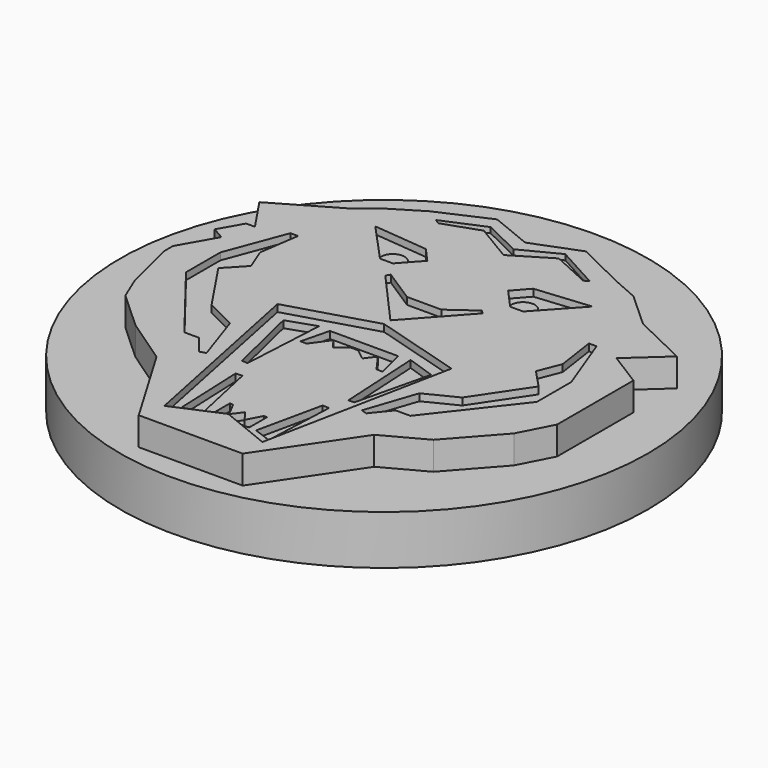
from build123d import *

# Parameters (mm, degrees)
F2_DEPTH  = 1.016
F0_R      = 9.525
F3_DEPTH  = 1.778
F5_DEPTH  = 0.73658
F8_DEPTH  = 0.19799
F10_DEPTH = 0.254
F12_DEPTH = 0.254
F14_DEPTH = 0.254
F16_DEPTH = 0.13808
F18_DEPTH = 0.254


with BuildPart() as f2:
    # F1 (on Top) → F2 (new body)
    with BuildSketch(Plane.XY):
        Polygon((-5.2096517757, 4.8718452454), (-7.3895002715, 3.6098279525), (-6.5481550992, 2.3594415264), (-6.86526423, 2.3594415264), (-7.3371550568, 1.5301066978), (-6.8923411891, 1.2770079775), (-7.6189576648, 0), (-7.6189576648, -0.3674388281), (-7.1600424126, -2.2795863915), (-6.7776124924, -3.1974171288), (-5.4391096346, -4.4211917557), (-3.7564195227, -5.5684801191), (-1.9207580481, -8.6661595851), (1.8270511646, -8.6661595851), (4.0068994276, -5.4537514225), (5.4983743466, -4.6506496146), (7.0280926302, -2.9297166038), (7.639979478, -1.7441851087), (7.639979478, -0.7116254419), (7.639979478, 0.3974201391), (7.639979478, 1.0475503514), (7.639979478, 1.6976804473), (6.4162053168, 2.4625393562), (7.6782228425, 3.6098279525), (5.6895888411, 4.5659020543), (4.427571781, 5.7131904177), (3.471497912, 6.1338627711), (1.6740793362, 7.0134503767), (0, 6.36332063), (-1.5000854619, 6.9752074778), (-3.2975040376, 6.17210567), (-4.3683070689, 5.5219754577), align=None)
    extrude(amount=F2_DEPTH)

    # F0 (on Top) → F3 (join)
    with BuildSketch(Plane.XY):
        Circle(F0_R)
    extrude(amount=-F3_DEPTH)

    # F7 (on face) → F8 (cut)
    with BuildSketch(Plane.XY.offset(1.016)):
        Polygon((-1.3463342329, 6.4942925237), (-2.822693903, 5.8646216057), (-2.6447118726, 5.755500868), (-1.3636830263, 6.2029086985), (0, 5.3883814253), (1.3446520315, 6.2008285895), (2.729951404, 5.569380708), (2.881785389, 5.6656086817), (1.3232411584, 6.5193735063), (0, 5.8390707709), align=None)
    extrude(amount=-F8_DEPTH, mode=Mode.SUBTRACT)

    # F9 (on face) → F10 (cut)
    with BuildSketch(Plane.XY.offset(1.016)):
        Polygon((-3.0135090929, -4.5730909333), (-2.8008187655, -4.5092836954), (-3.4176206682, -2.6801475324), (-4.5236102305, -2.1271528676), (-5.7784831151, -0.2554782841), (-5.1404121332, 0.4251306527), (-5.4594473913, 1.2333536288), (-5.246757064, 2.679647645), (-5.5232541636, 2.679647645), (-6.3314777799, 0.5314758164), (-6.3314777799, -1.0211633053), (-4.0769609623, -3.9137513377), (-3.545235144, -3.9137513377), align=None)
        Polygon((5.5232541636, 2.679647645), (5.246757064, 2.679647645), (5.4594473913, 1.2333536288), (5.1404121332, 0.4251306527), (5.7784831151, -0.2554782841), (4.5236102305, -2.1271528676), (3.4176206682, -2.6801475324), (2.8008187655, -4.5092836954), (3.0135090929, -4.5730909333), (3.545235144, -3.9137513377), (4.0769609623, -3.9137513377), (6.3314777799, -1.0211633053), (6.3314777799, 0.5314758164), align=None)
    extrude(amount=-F10_DEPTH, mode=Mode.SUBTRACT)

    # F11 (on face) → F12 (cut)
    with BuildSketch(Plane.XY.offset(1.016)):
        Polygon((0, 0), (-3.1052604318, -0.9244027315), (-1.7141137505, -7.7665727586), (0, -7.0284130052), (1.820534002, -7.7665727586), (3.1832898967, -0.938598183), align=None)
    extrude(amount=-F12_DEPTH, mode=Mode.SUBTRACT)

    # F13 (on face) → F14 (cut)
    with BuildSketch(Plane.XY.offset(1.016)):
        Polygon((-1.822640141, 2.3322773777), (0, 0.2859818342), (1.7637592973, 2.2436233703), (1.6359017026, 2.3588181173), (0.7133174804, 1.6945287352), (-0.5281137419, 1.6945287352), (-1.7337343888, 2.4704232346), align=None)
        Polygon((-2.1157131996, 3.043391509), (-1.4591871295, 3.7715386134), (-1.9366606139, 4.3086963706), (-3.9181755856, 4.4996854849), (-2.5812499225, 3.043391509), align=None)
        Polygon((1.4591871295, 3.7715386134), (2.1157131996, 3.043391509), (2.5812499225, 3.043391509), (3.9181755856, 4.4996854849), (1.9366606139, 4.3086963706), align=None)
    extrude(amount=-F14_DEPTH, mode=Mode.SUBTRACT)

    # F15 (on face) → F16 (join)
    with BuildSketch(Plane.XY.offset(0.762)):
        with BuildLine():
            Line((2.5812499225, 3.043391509), (2.7644233944, 3.2429197483))
            ThreePointArc((2.7644233944, 3.2429197483), (2.3504007339, 3.7546674576), (1.9342565257, 3.2446434588))
            Line((1.9342565257, 3.2446434588), (2.1157131996, 3.043391509))
            Line((2.1157131996, 3.043391509), (2.5812499225, 3.043391509))
        make_face()
        with BuildLine():
            Line((-2.7644233944, 3.2429197483), (-2.5812499225, 3.043391509))
            Line((-2.5812499225, 3.043391509), (-2.1157131996, 3.043391509))
            Line((-2.1157131996, 3.043391509), (-1.9342565257, 3.2446434588))
            ThreePointArc((-1.9342565257, 3.2446434588), (-2.3504007339, 3.7546674576), (-2.7644233944, 3.2429197483))
        make_face()
    extrude(amount=F16_DEPTH)

    # F17 (on face) → F18 (cut)
    with BuildSketch(Plane.XY.offset(0.762)):
        Polygon((-1.6513522714, -0.8654528065), (-2.665983513, -1.2116211001), (-2.0300412055, -3.8737652845), (-1.8184679793, -3.8854728919), align=None)
        Polygon((-1.5797313536, -7.1800402366), (-0.9351419867, -6.9413036108), (-1.4483418965, -4.579841237), (-1.6871627886, -4.5897462405), align=None)
        Polygon((1.5797313536, -7.1800402366), (1.6871627886, -4.5897462405), (1.4483418965, -4.579841237), (0.9351419867, -6.9413036108), align=None)
        Polygon((1.6513522714, -0.8654528065), (1.8184679793, -3.8854728919), (2.0300412055, -3.8737652845), (2.665983513, -1.2116211001), align=None)
        Polygon((0.1592475164, -0.9012632072), (-0.1592475164, -0.9012632072), (-1.2335629435, -0.9012632072), (-1.4842365636, -1.9158945652), (-1.2574365828, -1.9158945652), (-0.803836796, -1.283242018), (-0.5292895366, -1.6413471894), (-0.1250742725, -1.3314488641), (0.1250742725, -1.3314488641), (0.5292895366, -1.6413471894), (0.803836796, -1.283242018), (1.2574365828, -1.9158945652), (1.4842365636, -1.9158945652), (1.2335629435, -0.9012632072), align=None)
        Polygon((-0.6731920876, -6.11623656), (-0.6731920876, -6.9274515845), (-0.1211152558, -6.9274515845), (0.1211152558, -6.9274515845), (0.6731920876, -6.9274515845), (0.6731920876, -6.11623656), (0.5548899644, -6.11623656), (0.2788515121, -6.6401464865), (0, -6.2683396973), (-0.2788515121, -6.6401464865), (-0.5548899644, -6.11623656), align=None)
    extrude(amount=-F18_DEPTH, mode=Mode.SUBTRACT)


with BuildPart() as f5:
    # F4 (on face) → F5 (new body)
    with BuildSketch(Plane.XY.offset(1.016)):
        Polygon((17.713438698, 4.5463088655), (15.3496832919, 3.1778191726), (16.2620100905, 1.8219416059), (15.9181474671, 1.8219416059), (15.4064447065, 0.9226384258), (15.8887861108, 0.6481865685), (15.1008673055, -0.7365585255), (15.1008673055, -1.1349970032), (15.5984997833, -3.2084663974), (16.013194104, -4.2037316056), (17.4646222066, -5.5307522199), (19.2892755512, -6.7748336671), (21.2798059676, -10.1338545338), (25.3438059676, -10.1338545338), (27.7075611212, -6.6504256738), (29.324867053, -5.7795687113), (30.9836428208, -3.9134460356), (31.647152623, -2.6278950049), (31.647152623, -1.508221551), (31.647152623, -0.3056093086), (31.647152623, 0.3993703296), (31.647152623, 1.1043498415), (30.3201325137, 1.933737473), (31.688622459, 3.1778191726), (29.5322137084, 4.2145542169), (28.163724268, 5.458635664), (27.1269894762, 5.9147988108), (25.1779283908, 6.8685944355), (23.3626122858, 6.1636153022), (21.7359693669, 6.8271251044), (19.7869082815, 5.9562681419), (18.6257649916, 5.2512885037), align=None)
        Polygon((18.439305509, 1.7165624937), (18.4358818544, 1.7216506446), (19.9132289832, 2.5769567026), (20.4834329167, 3.0175689765), (21.2091474729, 3.4581812504), (22.4273106513, 4.0024668519), (23.4439624756, 3.5877732256), (23.4679646927, 3.5970945015), (25.3034550697, 4.8505836166), (25.7937528554, 3.4337042665), (25.7966982196, 3.4322629184), (26.4446574645, 3.1471609517), (27.2999633647, 2.3696100472), (28.6477188339, 1.7216506446), (28.6426317994, 1.7170260681), (28.6477188339, 1.7145803783), (27.7970213842, 0.9412191032), (28.6218001864, 0.4257323126), (28.6218001864, 0.4186620463), (28.6218001864, -0.5960899286), (28.6218001864, -0.6644358361), (28.6218001864, -1.0367022025), (28.6218001864, -1.1050481099), (28.6218001864, -1.7883348539), (28.6218001864, -1.8566807614), (28.6218001864, -1.9069207164), (28.6218001864, -1.9139909827), (28.20710656, -2.7174603769), (27.1703717051, -3.8837870492), (26.1595554977, -4.4280726508), (24.6822085267, -6.6052156882), (22.1422085267, -6.6052156882), (20.8981270165, -4.5058276465), (19.7577186761, -3.7282767421), (18.850576112, -2.8988888581), (18.5913921616, -2.276848103), (18.2803718629, -0.9809297316), (18.2803718629, -0.9738594653), (18.2803718629, -0.7319056831), (18.2803718629, -0.7248354168), (18.7697820642, 0.1352892187), (18.4713577386, 0.3050924115), (18.4743967906, 0.3104334598), (18.4713577386, 0.3121626778), (18.7911719639, 0.8742271654), (19.0013287467, 0.8742271654), (18.4358818544, 1.7145803783), align=None, mode=Mode.SUBTRACT)
    extrude(amount=F5_DEPTH)


solid = f2.part
